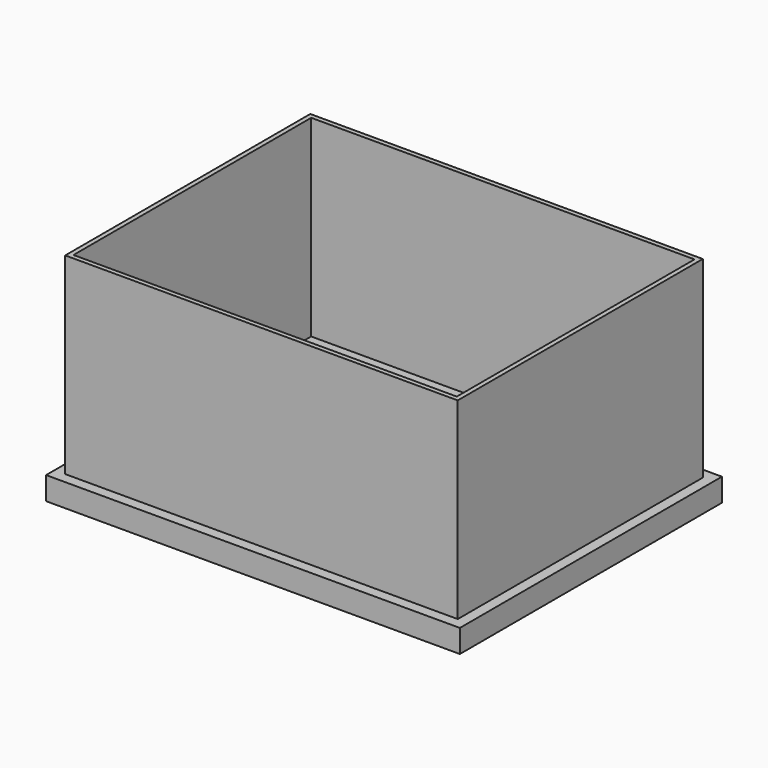
from build123d import *

# Parameters (mm, degrees)
F0_W     = 72
F0_H     = 57
F0_W_2   = 63
F0_H_2   = 48
F1_DEPTH = 4
F2_W     = 68.3
F2_H     = 53.3
F2_W_2   = 66.7
F2_H_2   = 51.7
F3_DEPTH = 37.5


with BuildPart() as f1:
    # F0 (on Top) → F1 (new body)
    with BuildSketch(Plane.XY):
        Rectangle(F0_W, F0_H)
        Rectangle(F0_W_2, F0_H_2, mode=Mode.SUBTRACT)
    extrude(amount=F1_DEPTH)

    # F2 (on Top) → F3 (join)
    with BuildSketch(Plane.XY):
        Rectangle(F2_W, F2_H)
        Rectangle(F2_W_2, F2_H_2, mode=Mode.SUBTRACT)
    extrude(amount=F3_DEPTH)


solid = f1.part
